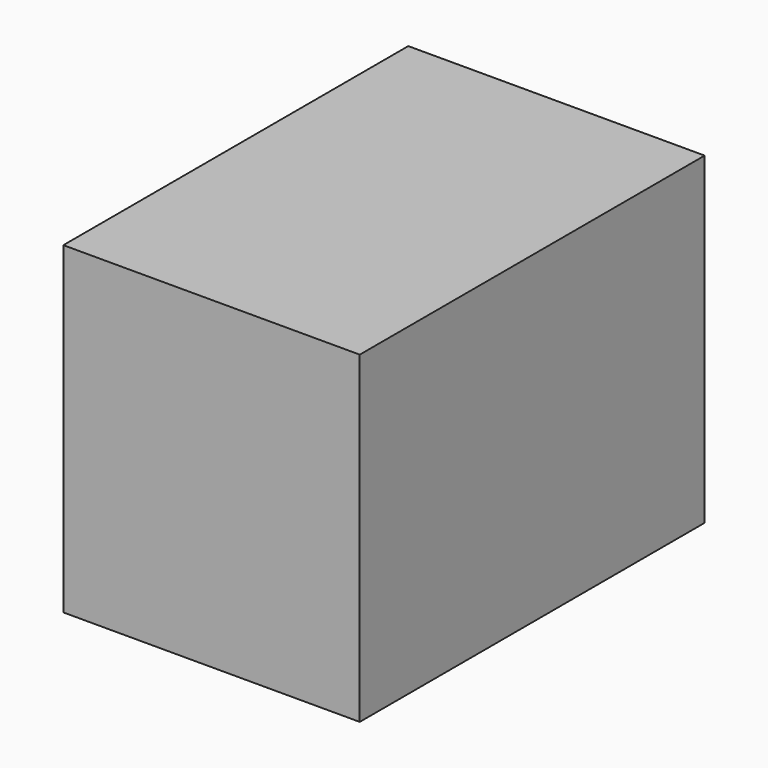
from build123d import *

# Parameters (mm, degrees)
SKETCH003_W  = 44
SKETCH003_H  = 48
PAD002_DEPTH = 61
SKETCH004_W  = 44
SKETCH004_H  = 48
PAD003_DEPTH = 3
SKETCH005_R  = 1.25
POCKET_DEPTH = 30


with BuildPart() as part:
    # Sketch003 (on Face1 of Binder004) → Pad002 (new body)
    with BuildSketch(Plane.XZ.offset(-30.5)):
        with Locations((0, -2)):
            Rectangle(SKETCH003_W, SKETCH003_H)
        with BuildLine():
            Line((-16.5, -23), (16.5, -23))
            ThreePointArc((19, -20.5), (17.232233, -21.232233), (16.5, -23))
            Line((19, -20.5), (19, 16.499999))
            ThreePointArc((16.5, 18.999999), (17.232233, 17.232232), (19, 16.499999))
            Line((16.5, 18.999999), (-16.5, 18.999999))
            ThreePointArc((-19, 16.5), (-17.232233, 17.232233), (-16.5, 18.999999))
            Line((-19, 16.5), (-19, -20.5))
            ThreePointArc((-16.5, -23), (-17.232233, -21.232233), (-19, -20.5))
        make_face(mode=Mode.SUBTRACT)
    extrude(amount=PAD002_DEPTH)

    # Sketch004 (on Face14 of Pad002) → Pad003 (join)
    with BuildSketch(Plane.XZ.offset(30.5)):
        with Locations((0, -2)):
            Rectangle(SKETCH004_W, SKETCH004_H)
    extrude(amount=PAD003_DEPTH)

    # Sketch005 (on Face1 of Pad003) → Pocket (cut)
    with BuildSketch(Plane(origin=(0, 30.5, 0), x_dir=(-1, 0, 0), z_dir=(0, 1, 0))):
        with Locations((-19.462404, 19.260412)):
            Circle(SKETCH005_R)
        with Locations((19.271234, 19.432414)):
            Circle(SKETCH005_R)
        with Locations((19.271234, -23.428404)):
            Circle(SKETCH005_R)
        with Locations((-19.428404, -23.271234)):
            Circle(SKETCH005_R)
    extrude(amount=-POCKET_DEPTH, mode=Mode.SUBTRACT)


solid = part.part
